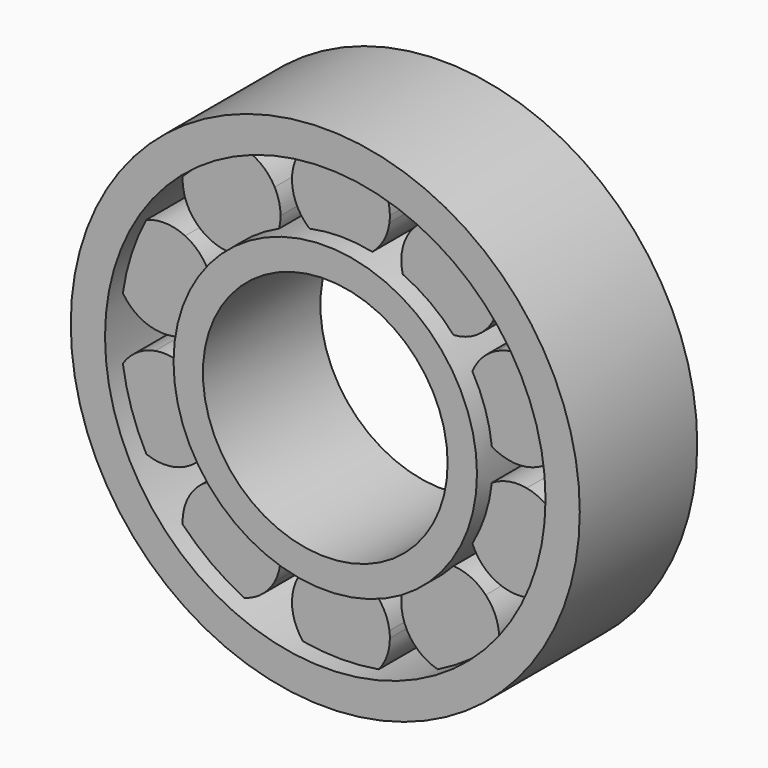
from build123d import *

# Parameters (mm, degrees)
F2_R     = 26
F2_R_2   = 22.5
F3_DEPTH = 15
F1_R     = 15.5
F1_R_2   = 12.5
F4_DEPTH = 15
F6_DEPTH = 5.5


with BuildPart() as f3:
    # F2 (on Front) → F3 (new body)
    with BuildSketch(Plane.XZ):
        Circle(F2_R)
        Circle(F2_R_2, mode=Mode.SUBTRACT)
    extrude(amount=F3_DEPTH)



with BuildPart() as f4:
    # F1 (on Front) → F4 (new body)
    with BuildSketch(Plane.XZ):
        Circle(F1_R)
        Circle(F1_R_2, mode=Mode.SUBTRACT)
    extrude(amount=F4_DEPTH)


with BuildPart() as f3_1:
    add(f3.part)

    add(f4.part)  # F6 merges F4
    # F5 (on offset) → F6 (join, symmetric)
    with BuildSketch(Plane.XZ.offset(7.5)):
        with BuildLine():
            ThreePointArc((-18.97603, 0.954084), (-18.070074, 5.871323), (-15.912727, 10.381961))
            ThreePointArc((-15.912727, 10.381961), (-22.825356, 7.416408), (-18.97603, 0.954084))
        make_face()
        with BuildLine():
            ThreePointArc((-13.070074, 5.871323), (-13.840019, 8.53715), (-15.912727, 10.381961))
            ThreePointArc((-15.912727, 10.381961), (-18.070074, 5.871323), (-18.97603, 0.954084))
            ThreePointArc((-18.97603, 0.954084), (-14.870838, 2.028812), (-13.070074, 5.871323))
        make_face()
        with BuildLine():
            ThreePointArc((-18.97603, -0.954084), (-22.825356, -7.416408), (-15.912727, -10.381961))
            ThreePointArc((-15.912727, -10.381961), (-18.070074, -5.871323), (-18.97603, -0.954084))
        make_face()
        with BuildLine():
            ThreePointArc((-18.97603, -0.954084), (-18.070074, -5.871323), (-15.912727, -10.381961))
            ThreePointArc((-15.912727, -10.381961), (-13.840019, -8.53715), (-13.070074, -5.871323))
            ThreePointArc((-13.070074, -5.871323), (-14.870838, -2.028812), (-18.97603, -0.954084))
        make_face()
        with BuildLine():
            ThreePointArc((-14.791135, -11.925701), (-14.106846, -19.416408), (-6.771303, -17.752449))
            ThreePointArc((-6.771303, -17.752449), (-11.16792, -15.371323), (-14.791135, -11.925701))
        make_face()
        with BuildLine():
            ThreePointArc((-14.791135, -11.925701), (-11.16792, -15.371323), (-6.771303, -17.752449))
            ThreePointArc((-6.771303, -17.752449), (-6.321112, -16.599516), (-6.16792, -15.371323))
            ThreePointArc((-6.16792, -15.371323), (-9.312667, -10.72826), (-14.791135, -11.925701))
        make_face()
        with BuildLine():
            ThreePointArc((5, -19), (4.98912, -18.670335), (4.956528, -18.342105))
            ThreePointArc((4.956528, -18.342105), (0, -19), (-4.956528, -18.342105))
            ThreePointArc((-4.956528, -18.342105), (-0.329665, -23.98912), (5, -19))
        make_face()
        with BuildLine():
            ThreePointArc((-4.956528, -18.342105), (0, -19), (4.956528, -18.342105))
            ThreePointArc((4.956528, -18.342105), (0, -14), (-4.956528, -18.342105))
        make_face()
        with BuildLine():
            ThreePointArc((6.771303, -17.752449), (11.16792, -15.371323), (14.791135, -11.925701))
            ThreePointArc((14.791135, -11.925701), (8.228994, -11.326238), (6.771303, -17.752449))
        make_face()
        with BuildLine():
            ThreePointArc((16.16792, -15.371323), (15.810983, -13.51607), (14.791135, -11.925701))
            ThreePointArc((14.791135, -11.925701), (11.16792, -15.371323), (6.771303, -17.752449))
            ThreePointArc((6.771303, -17.752449), (12.396113, -20.21813), (16.16792, -15.371323))
        make_face()
        with BuildLine():
            ThreePointArc((15.912727, -10.381961), (18.070074, -5.871323), (18.97603, -0.954084))
            ThreePointArc((18.97603, -0.954084), (13.314791, -4.326238), (15.912727, -10.381961))
        make_face()
        with BuildLine():
            ThreePointArc((23.070074, -5.871323), (21.912585, -2.672087), (18.97603, -0.954084))
            ThreePointArc((18.97603, -0.954084), (18.070074, -5.871323), (15.912727, -10.381961))
            ThreePointArc((15.912727, -10.381961), (20.735901, -10.101378), (23.070074, -5.871323))
        make_face()
        with BuildLine():
            ThreePointArc((15.912727, 10.381961), (13.314791, 4.326238), (18.97603, 0.954084))
            ThreePointArc((18.97603, 0.954084), (18.070074, 5.871323), (15.912727, 10.381961))
        make_face()
        with BuildLine():
            ThreePointArc((15.912727, 10.381961), (18.070074, 5.871323), (18.97603, 0.954084))
            ThreePointArc((18.97603, 0.954084), (21.912585, 2.672087), (23.070074, 5.871323))
            ThreePointArc((23.070074, 5.871323), (20.735901, 10.101378), (15.912727, 10.381961))
        make_face()
        with BuildLine():
            ThreePointArc((6.771303, 17.752449), (8.228994, 11.326238), (14.791135, 11.925701))
            ThreePointArc((14.791135, 11.925701), (11.16792, 15.371323), (6.771303, 17.752449))
        make_face()
        with BuildLine():
            ThreePointArc((6.771303, 17.752449), (11.16792, 15.371323), (14.791135, 11.925701))
            ThreePointArc((14.791135, 11.925701), (15.810983, 13.51607), (16.16792, 15.371323))
            ThreePointArc((16.16792, 15.371323), (12.396113, 20.21813), (6.771303, 17.752449))
        make_face()
        with BuildLine():
            ThreePointArc((-4.956528, 18.342105), (0, 19), (4.956528, 18.342105))
            ThreePointArc((4.956528, 18.342105), (4.98912, 18.670335), (5, 19))
            ThreePointArc((5, 19), (-0.329665, 23.98912), (-4.956528, 18.342105))
        make_face()
        with BuildLine():
            ThreePointArc((-4.956528, 18.342105), (0, 14), (4.956528, 18.342105))
            ThreePointArc((4.956528, 18.342105), (0, 19), (-4.956528, 18.342105))
        make_face()
        with BuildLine():
            ThreePointArc((-6.16792, 15.371323), (-6.321112, 16.599516), (-6.771303, 17.752449))
            ThreePointArc((-6.771303, 17.752449), (-11.16792, 15.371323), (-14.791135, 11.925701))
            ThreePointArc((-14.791135, 11.925701), (-9.312667, 10.72826), (-6.16792, 15.371323))
        make_face()
        with BuildLine():
            ThreePointArc((-14.791135, 11.925701), (-11.16792, 15.371323), (-6.771303, 17.752449))
            ThreePointArc((-6.771303, 17.752449), (-14.106846, 19.416408), (-14.791135, 11.925701))
        make_face()
    extrude(amount=F6_DEPTH, both=True)


solid = f3_1.part
